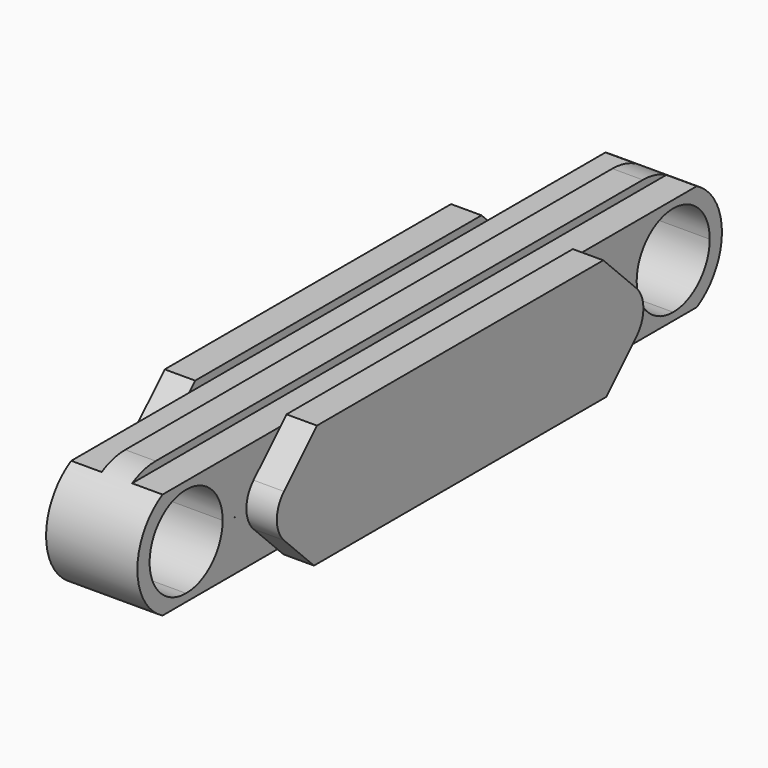
from build123d import *

# Parameters (mm, degrees)
F1_DEPTH = 45.72
F3_DEPTH = 76.2
F2_W     = 30.48
F2_H     = 7.62
F4_DEPTH = 762
F5_R     = 30.48


with BuildPart() as f1:
    # F0 (on Right) → F1 (new body, symmetric)
    with BuildSketch(Plane.YZ):
        with BuildLine():
            ThreePointArc((0, 45.72), (32.3289220358, 32.3289220358), (45.72, 0))
            ThreePointArc((45.72, 0), (32.3289220358, -32.3289220358), (0, -45.72))
            Line((0, -45.72), (0, -60.96))
            ThreePointArc((0, -60.96), (43.1052293811, -43.1052293811), (60.96, 0))
            ThreePointArc((60.96, 0), (43.1052293811, 43.1052293811), (0, 60.96))
            Line((0, 60.96), (0, 45.72))
        make_face()
        with BuildLine():
            ThreePointArc((0, -45.72), (-45.72, 0), (0, 45.72))
            Line((0, 45.72), (0, 60.96))
            ThreePointArc((0, 60.96), (-43.1052293811, 43.1052293811), (-60.96, 0))
            ThreePointArc((-60.96, 0), (-60.9300804884, -1.9096836578), (-60.8403513231, -3.8174927486))
            ThreePointArc((-60.8403513231, -3.8174927486), (-41.7337228272, -44.434423356), (0, -60.96))
            Line((0, -60.96), (0, -45.72))
        make_face()
        with BuildLine():
            ThreePointArc((-60.96, 0), (-43.1052293811, 43.1052293811), (0, 60.96))
            Line((0, 60.96), (-60.96, 60.96))
            Line((-60.96, 60.96), (-60.96, 0))
        make_face()
        with BuildLine():
            Line((-121.92, -60.96), (0, -60.96))
            ThreePointArc((0, -60.96), (-41.7337228272, -44.434423356), (-60.8403513231, -3.8174927486))
            Line((-60.8403513231, -3.8174927486), (-62.8089220358, -1.8489220358))
            Line((-62.8089220358, -1.8489220358), (-121.92, -60.96))
        make_face()
        Polygon((-62.8089220358, -1.8489220358), (-60.96, 0), (-60.96, 60.96), (-125.6178440717, 60.96), align=None)
        Polygon((-304.8, -60.96), (-121.92, -60.96), (-62.8089220358, -1.8489220358), (-125.6178440717, 60.96), (-304.8, 60.96), align=None)
        Polygon((-487.68, -60.96), (-304.8, -60.96), (-304.8, 60.96), (-483.9821559283, 60.96), (-546.7910779642, -1.8489220358), align=None)
        Polygon((-548.64, -60.96), (-487.68, -60.96), (-546.7910779642, -1.8489220358), (-548.64, -3.6978440717), align=None)
        with BuildLine():
            Line((-546.7910779642, -1.8489220358), (-483.9821559283, 60.96))
            Line((-483.9821559283, 60.96), (-609.6, 60.96))
            ThreePointArc((-609.6, 60.96), (-566.4947706189, 43.1052293811), (-548.64, 0))
            Line((-548.64, 0), (-546.7910779642, -1.8489220358))
        make_face()
        with BuildLine():
            Line((-609.6, -60.96), (-548.64, -60.96))
            Line((-548.64, -60.96), (-548.64, -3.6978440717))
            Line((-548.64, -3.6978440717), (-548.7596486769, -3.8174927486))
            ThreePointArc((-548.7596486769, -3.8174927486), (-567.8662771728, -44.434423356), (-609.6, -60.96))
        make_face()
        with BuildLine():
            ThreePointArc((-548.64, 0), (-566.4947706189, 43.1052293811), (-609.6, 60.96))
            Line((-609.6, 60.96), (-609.6, 45.72))
            ThreePointArc((-609.6, 45.72), (-577.2710779642, 32.3289220358), (-563.88, 0))
            ThreePointArc((-563.88, 0), (-577.2710779642, -32.3289220358), (-609.6, -45.72))
            Line((-609.6, -45.72), (-609.6, -60.96))
            ThreePointArc((-609.6, -60.96), (-567.8662771728, -44.434423356), (-548.7596486769, -3.8174927486))
            ThreePointArc((-548.7596486769, -3.8174927486), (-548.6699195116, -1.9096836578), (-548.64, 0))
        make_face()
        with BuildLine():
            Line((-609.6, 45.72), (-609.6, 60.96))
            ThreePointArc((-609.6, 60.96), (-670.56, 0), (-609.6, -60.96))
            Line((-609.6, -60.96), (-609.6, -45.72))
            ThreePointArc((-609.6, -45.72), (-655.32, 0), (-609.6, 45.72))
        make_face()
        Polygon((-548.64, -3.6978440717), (-546.7910779642, -1.8489220358), (-548.64, 0), align=None)
        with BuildLine():
            ThreePointArc((-60.8403513231, -3.8174927486), (-60.9300804884, -1.9096836578), (-60.96, 0))
            Line((-60.96, 0), (-62.8089220358, -1.8489220358))
            Line((-62.8089220358, -1.8489220358), (-60.8403513231, -3.8174927486))
        make_face()
    extrude(amount=F1_DEPTH, both=True)

    # F0 (on Right) → F3 (join, symmetric)
    with BuildSketch(Plane.YZ):
        Polygon((-487.68, -60.96), (-304.8, -60.96), (-304.8, 60.96), (-483.9821559283, 60.96), (-546.7910779642, -1.8489220358), align=None)
        Polygon((-304.8, -60.96), (-121.92, -60.96), (-62.8089220358, -1.8489220358), (-125.6178440717, 60.96), (-304.8, 60.96), align=None)
    extrude(amount=F3_DEPTH, both=True)

    # F2 (on Front) → F4 (cut, symmetric)
    with BuildSketch(Plane.XZ):
        with Locations((-30.48, 57.15)):
            Rectangle(F2_W, F2_H)
        with Locations((30.48, 57.15)):
            Rectangle(F2_W, F2_H)
        with Locations((-30.48, -57.15)):
            Rectangle(F2_W, F2_H)
        with Locations((30.48, -57.15)):
            Rectangle(F2_W, F2_H)
    extrude(amount=F4_DEPTH, both=True, mode=Mode.SUBTRACT)

    # F5
    f5_edges = [f1.edges().sort_by_distance(p)[0] for p in [
        (60.96, -546.791078, -1.848922),
        (-60.96, -546.791078, -1.848922),
        (-60.96, -62.808922, -1.848922),
        (60.96, -62.808922, -1.848922),
    ]]
    fillet(f5_edges, radius=F5_R)


solid = f1.part
